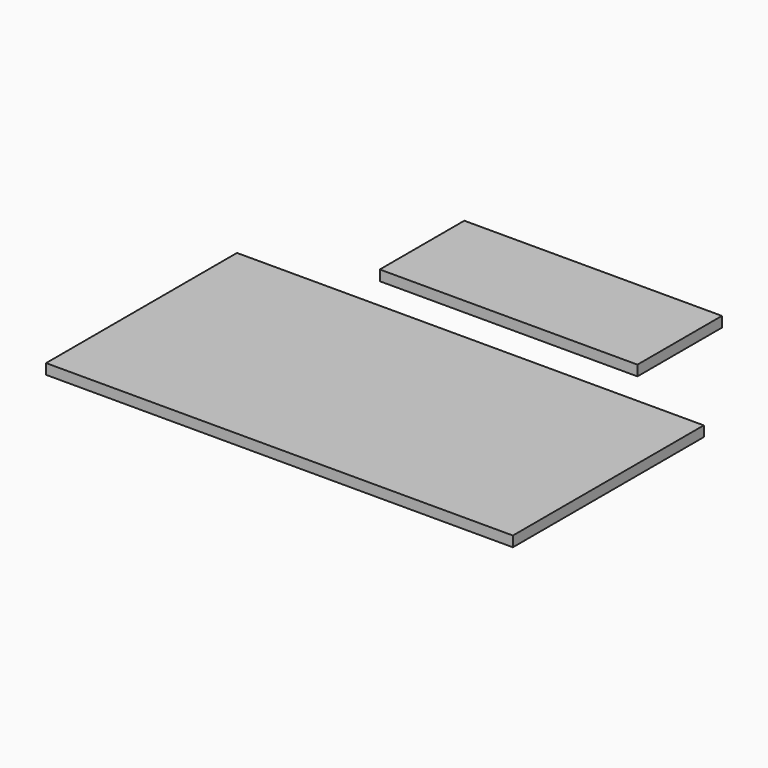
from build123d import *

# Parameters (mm, degrees)
F0_W     = 1143
F0_H     = 584.2
F0_W_2   = 630.841262
F0_H_2   = 258.554578
F1_DEPTH = 25.4


with BuildPart() as f1:
    # F0 (on Top) → F1 (new body)
    with BuildSketch(Plane.XY):
        with Locations((571.5, 247.390819)):
            Rectangle(F0_W, F0_H)
        with Locations((571.5, 785.862267)):
            Rectangle(F0_W_2, F0_H_2)
    extrude(amount=F1_DEPTH)


solid = f1.part
